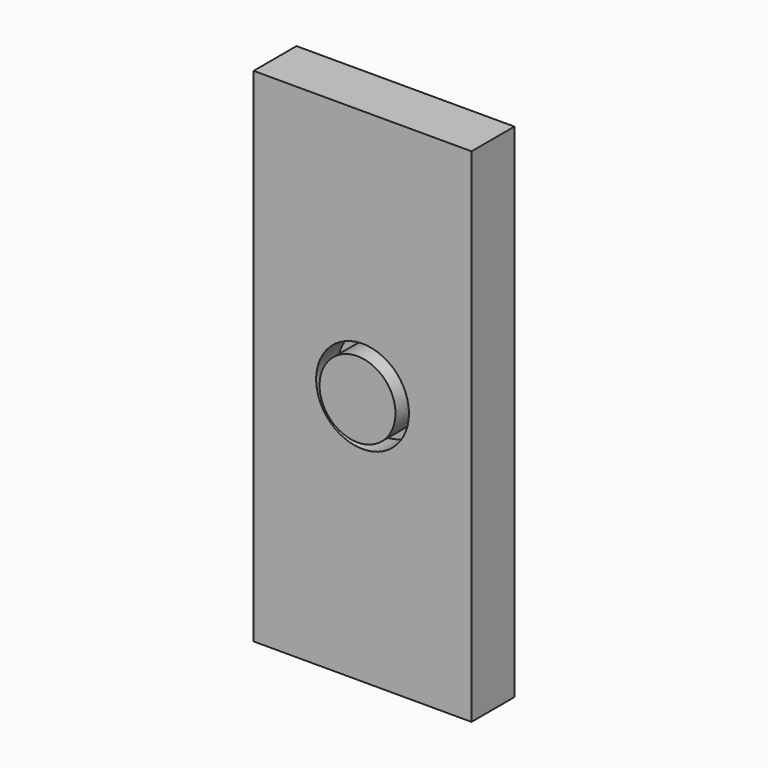
from build123d import *

# Parameters (mm, degrees)
F0_R          = 9
F1_DEPTH      = 10
F1_DEPTH_BACK = 1.5
F2_W          = 51.6399771267
F2_H          = 119.0588462234
F2_R          = 11
F3_DEPTH      = 6.35
F4_W          = 51.6399771267
F4_H          = 119.0588462234
F5_DEPTH      = 6.35


with BuildPart() as f1:
    # F0 (on Front) → F1 (new body, two sides)
    with BuildSketch(Plane.XZ) as f1_sk:
        Circle(F0_R)
    extrude(amount=-F1_DEPTH)
    extrude(f1_sk.sketch, amount=F1_DEPTH_BACK)



with BuildPart() as f3:
    # F2 (on Front) → F3 (new body)
    with BuildSketch(Plane.XZ):
        Rectangle(F2_W, F2_H)
        Circle(F2_R, mode=Mode.SUBTRACT)
    extrude(amount=-F3_DEPTH)


with BuildPart() as f1_1:
    add(f1.part)

    add(f3.part)  # F5 merges F3
    # F4 (on face) → F5 (join)
    with BuildSketch(Plane(origin=(0, 6.35, 0), x_dir=(-1, 0, 0), z_dir=(0, 1, 0))):
        Rectangle(F4_W, F4_H)
    extrude(amount=F5_DEPTH)


solid = f1_1.part
